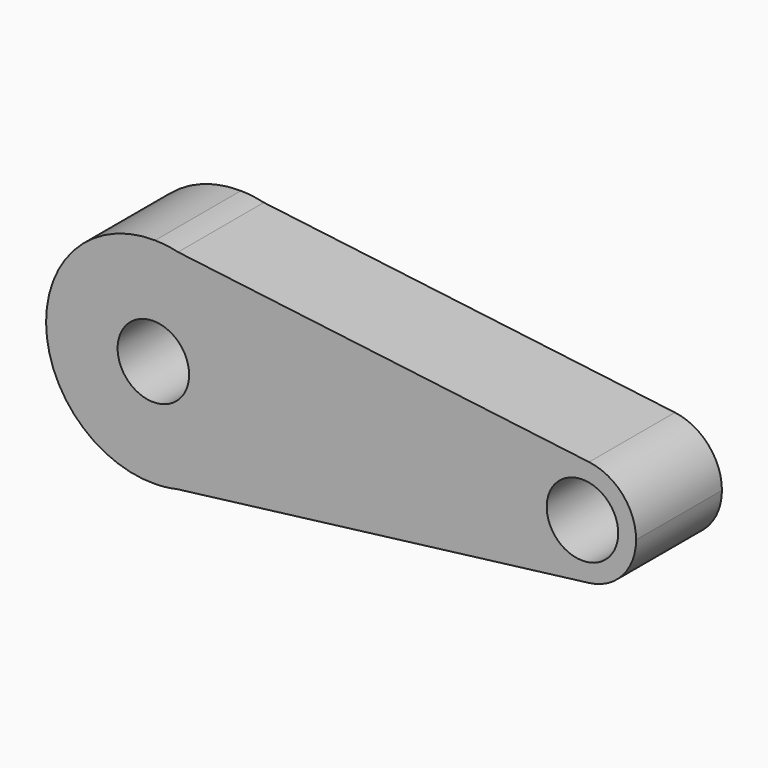
from build123d import *

# Parameters (mm, degrees)
F0_R     = 12.7
F1_DEPTH = 38.1


with BuildPart() as f1:
    # F0 (on Front) → F1 (new body)
    with BuildSketch(Plane.XZ):
        with BuildLine():
            Line((-76.542863, 37.079855), (-84.698985, 38.095253))
            ThreePointArc((-84.698985, 38.095253), (-123.400086, -0.153111), (-84.392823, -38.089189))
            Line((-84.392823, -38.089189), (-76.825925, -37.14557))
            ThreePointArc((-76.825925, -37.14557), (-55.513758, -23.756397), (-47.200393, 0))
            ThreePointArc((-47.200393, 0), (-55.423379, 23.642632), (-76.542863, 37.079855))
        make_face()
        with Locations((-85.300393, 0)):
            Circle(F0_R, mode=Mode.SUBTRACT)
        with BuildLine():
            ThreePointArc((-76.542863, 37.079855), (-80.593463, 37.808132), (-84.698985, 38.095253))
            Line((-84.698985, 38.095253), (-76.542863, 37.079855))
        make_face()
        with BuildLine():
            Line((-76.825925, -37.14557), (-84.392823, -38.089189))
            ThreePointArc((-84.392823, -38.089189), (-80.585707, -37.807165), (-76.825925, -37.14557))
        make_face()
        with BuildLine():
            Line((69.453072, 18.904066), (-76.542863, 37.079855))
            ThreePointArc((-76.542863, 37.079855), (-55.423379, 23.642632), (-47.200393, 0))
            ThreePointArc((-47.200393, 0), (-55.513758, -23.756397), (-76.825925, -37.14557))
            Line((-76.825925, -37.14557), (69.45695, -18.903583))
            ThreePointArc((69.45695, -18.903583), (48.049607, -0.001954), (69.453072, 18.904066))
        make_face()
        with BuildLine():
            ThreePointArc((86.149607, 0), (81.377842, 12.610888), (69.453072, 18.904066))
            ThreePointArc((69.453072, 18.904066), (48.049607, -0.001954), (69.45695, -18.903583))
            ThreePointArc((69.45695, -18.903583), (81.379136, -12.609423), (86.149607, 0))
        make_face()
        with Locations((67.099607, 0)):
            Circle(F0_R, mode=Mode.SUBTRACT)
    extrude(amount=F1_DEPTH)


solid = f1.part
